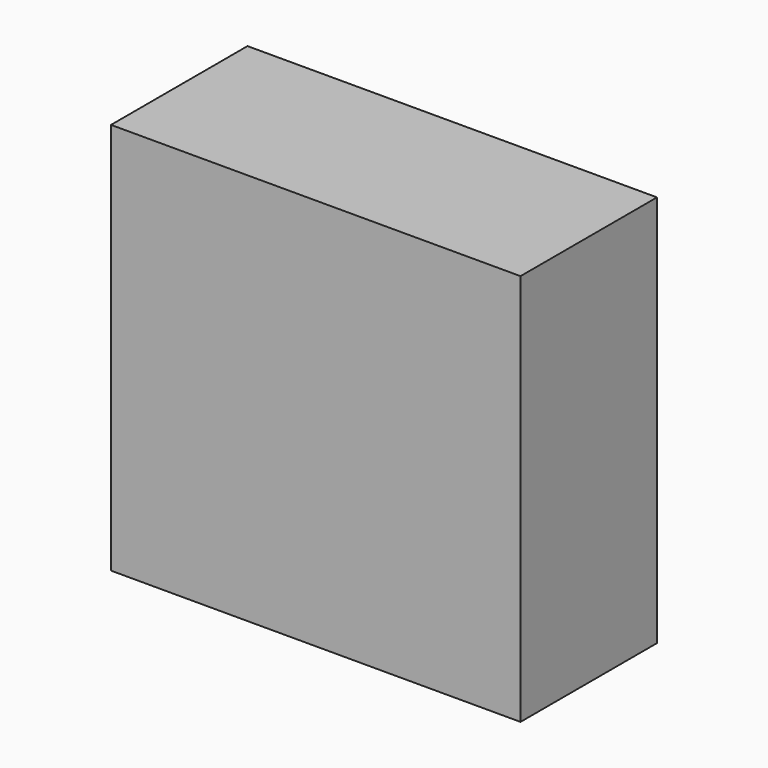
from build123d import *

# Parameters (mm, degrees)
F0_W     = 609.6
F0_H     = 584.2
F0_W_2   = 482.750386
F0_H_2   = 473.601863
F1_DEPTH = 254


with BuildPart() as f1:
    # F0 (on Front) → F1 (new body)
    with BuildSketch(Plane.XZ):
        with Locations((16.690362, 16.114293)):
            Rectangle(F0_W, F0_H)
        with Locations((21.330595, 8.099318)):
            Rectangle(F0_W_2, F0_H_2, mode=Mode.SUBTRACT)
        with Locations((21.330595, 8.099318)):
            Rectangle(F0_W_2, F0_H_2)
    extrude(amount=-F1_DEPTH)


solid = f1.part
